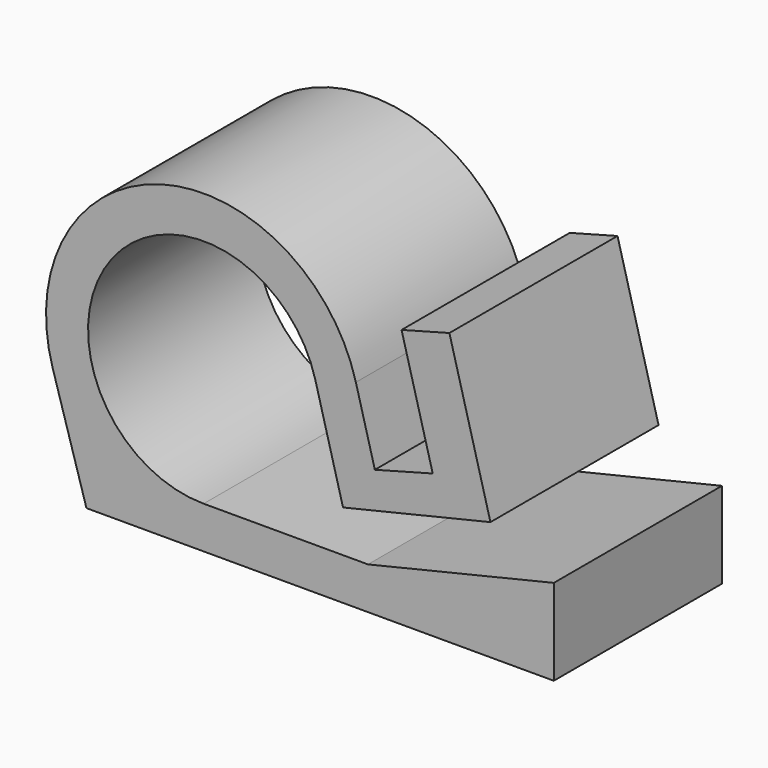
from build123d import *

# Parameters (mm, degrees)
F1_DEPTH = 40


with BuildPart() as f1:
    # F0 (on Front) → F1 (new body)
    with BuildSketch(Plane.XZ):
        with BuildLine():
            Line((11.19602, 21.634527), (7.583911, 35.115099))
            ThreePointArc((7.583911, 35.115099), (-29.595389, 56.207676), (-50.123796, 18.713921))
            Line((-50.123796, 18.713921), (-43.70167, -2.649472))
            Line((-43.70167, -2.649472), (17.702898, -2.649472))
            Line((17.702898, -2.649472), (45.256895, -2.649472))
            Line((45.256895, -2.649472), (45.256895, 13.755192))
            Line((45.256895, 13.755192), (9.887894, 5.350528))
            Line((9.887894, 5.350528), (-21.393864, 5.350528))
            ThreePointArc((-21.393864, 5.350528), (-38.847637, 40.743279), (-0.143495, 33.044547))
            Line((-0.143495, 33.044547), (5.135398, 13.343448))
            Line((5.135398, 13.343448), (33.195067, 20.011211))
            Line((33.195067, 20.011211), (25.383751, 49.163439))
            Line((25.383751, 49.163439), (16.278202, 46.723614))
            Line((16.278202, 46.723614), (22.210032, 24.585723))
            Line((22.210032, 24.585723), (11.19602, 21.634527))
        make_face()
    extrude(amount=F1_DEPTH)


solid = f1.part
